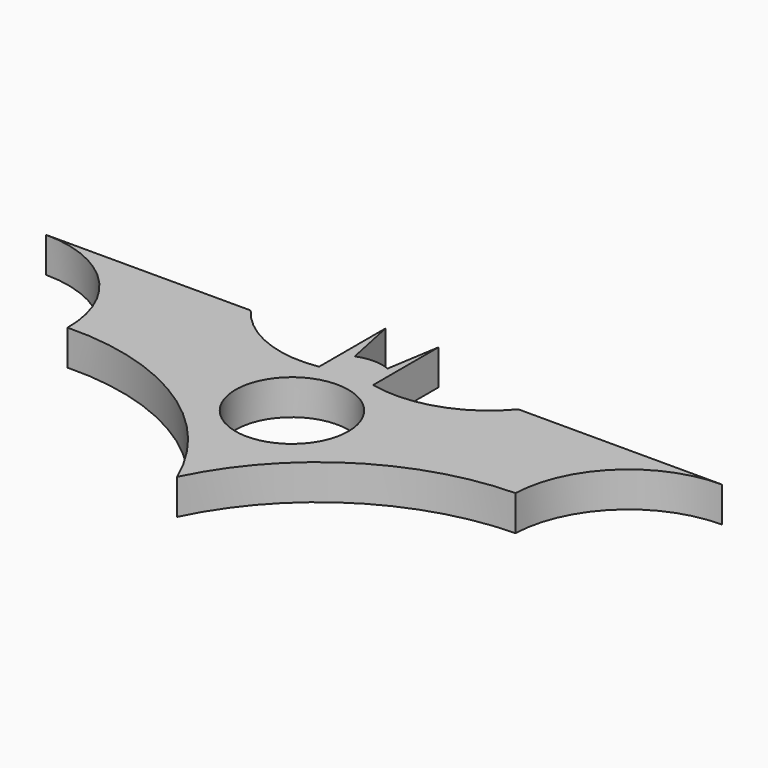
from build123d import *

# Parameters (mm, degrees)
F0_R     = 11.2
F1_DEPTH = 7


with BuildPart() as f1:
    # F0 (on Top) → F1 (new body)
    with BuildSketch(Plane.XY):
        with BuildLine():
            Line((-25.988072, 22.241659), (-66.603854, 22.241659))
            ThreePointArc((-66.603854, 22.241659), (-50.942339, 15.715839), (-44.548452, 0))
            ThreePointArc((-44.548452, 0), (-17.881455, -7.399281), (0, -28.521109))
            ThreePointArc((0, -28.521109), (18.159278, -7.996654), (44.371225, 0))
            ThreePointArc((44.371225, 0), (51.493322, 15.782316), (67.558273, 22.241659))
            Line((67.558273, 22.241659), (27.147427, 22.241659))
            ThreePointArc((27.147427, 22.241659), (16.888019, 15.22177), (4.475268, 14.545086))
            Line((4.475268, 14.545086), (4.475268, 30.796813))
            Line((4.475268, 30.796813), (2.76984, 20.263286))
            ThreePointArc((2.76984, 20.263286), (-0.490537, 20.907732), (-3.750914, 20.263286))
            Line((-3.750914, 20.263286), (-5.905825, 30.596174))
            Line((-5.905825, 30.596174), (-5.905825, 14.118503))
            ThreePointArc((-5.905825, 14.118503), (-17.08841, 15.358135), (-25.988072, 22.241659))
        make_face()
        Circle(F0_R, mode=Mode.SUBTRACT)
    extrude(amount=F1_DEPTH)


solid = f1.part
